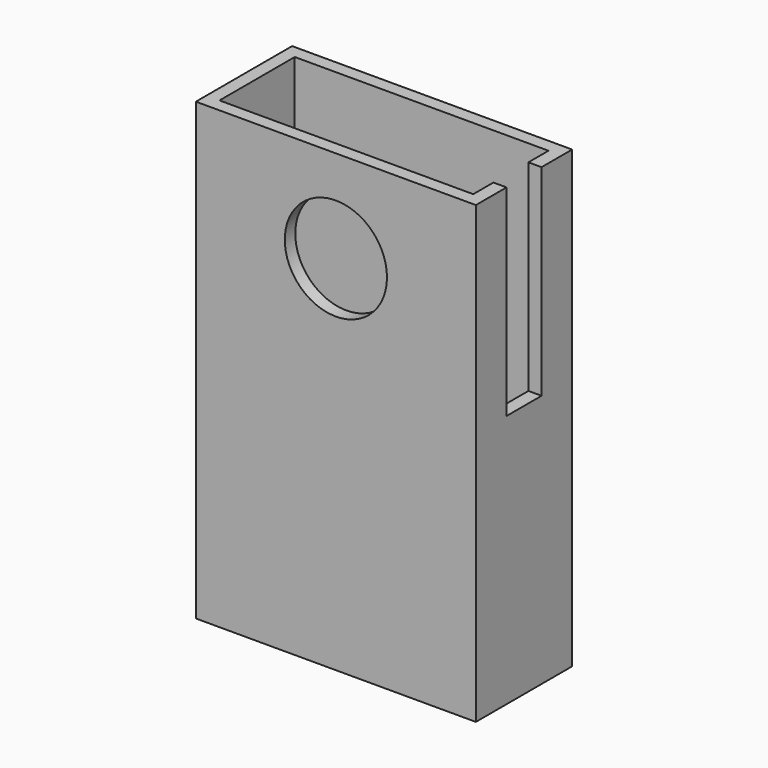
from build123d import *

# Parameters (mm, degrees)
F0_W      = 32
F0_H      = 52
F1_DEPTH  = 13.75
F2_T      = -1.5
F3_R      = 5.84
F4_DEPTH  = 1.5
F5_R      = 4.722056
F6_DEPTH  = 3
F7_W      = 5
F7_H      = 23
F8_DEPTH  = 2
F9_W      = 11
F9_H      = 5
F10_DEPTH = 2


with BuildPart() as f1:
    # F0 (on Front) → F1 (new body)
    with BuildSketch(Plane.XZ):
        Rectangle(F0_W, F0_H)
    extrude(amount=-F1_DEPTH)

    # F2
    f2_openings = [f1.faces().sort_by_distance(p)[0] for p in [
        (0, 6.875, 26),
    ]]
    offset(amount=F2_T, openings=f2_openings)

    # F3 (on Front) → F4 (cut)
    with BuildSketch(Plane.XZ):
        with Locations((0, 15.42)):
            Circle(F3_R)
    extrude(amount=-F4_DEPTH, mode=Mode.SUBTRACT)

    # F5 (on face) → F6 (cut)
    with BuildSketch(Plane(origin=(-16, 0, 0), x_dir=(0, -1, 0), z_dir=(-1, 0, 0))):
        with Locations((-7.457727, 15.722008)):
            Circle(F5_R)
    extrude(amount=-F6_DEPTH, mode=Mode.SUBTRACT)

    # F7 (on face) → F8 (cut)
    with BuildSketch(Plane.YZ.offset(16)):
        with Locations((6.88, 14.5)):
            Rectangle(F7_W, F7_H)
    extrude(amount=-F8_DEPTH, mode=Mode.SUBTRACT)

    # F9 (on face) → F10 (cut)
    with BuildSketch(Plane(origin=(0, 0, -26), x_dir=(1, 0, 0), z_dir=(0, 0, -1))):
        with Locations((0, -8.16)):
            Rectangle(F9_W, F9_H)
    extrude(amount=-F10_DEPTH, mode=Mode.SUBTRACT)


solid = f1.part
